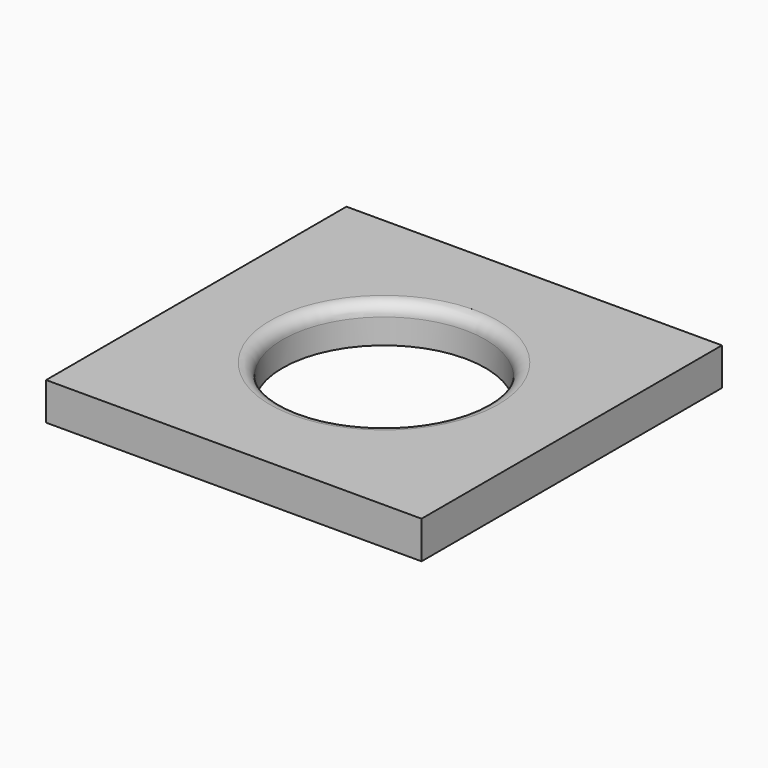
from build123d import *

# Parameters (mm, degrees)
F0_W     = 30
F0_H     = 30
F0_R     = 8.1
F1_DEPTH = 3
F2_R     = 1


with BuildPart() as f1:
    # F0 (on Top) → F1 (new body)
    with BuildSketch(Plane.XY):
        Rectangle(F0_W, F0_H)
        Circle(F0_R, mode=Mode.SUBTRACT)
    extrude(amount=F1_DEPTH)

    # F2
    f2_edges = [f1.edges().sort_by_distance(p)[0] for p in [
        (-8.1, 0, 3),
    ]]
    fillet(f2_edges, radius=F2_R)


solid = f1.part
